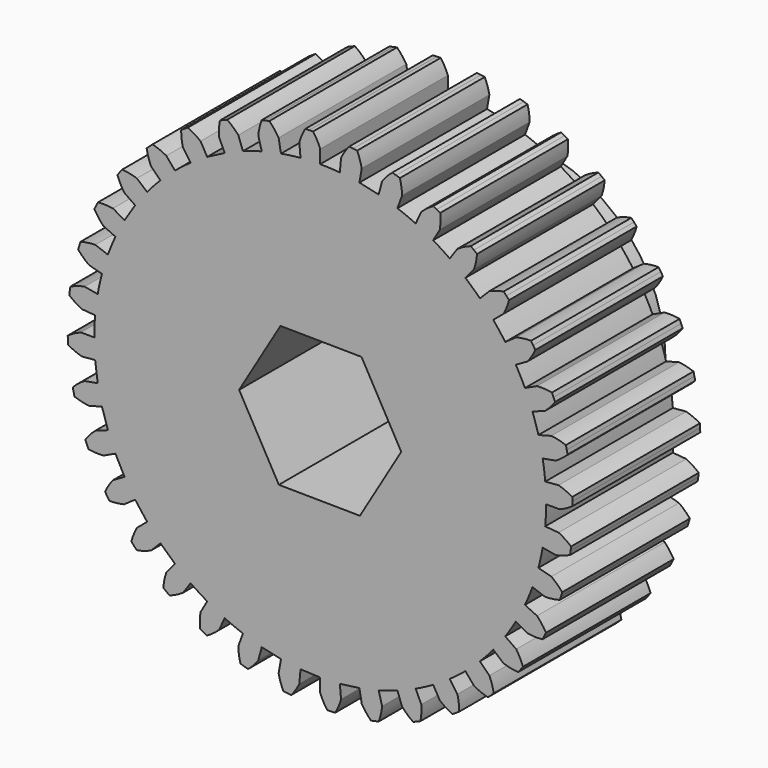
from build123d import *

# Parameters (mm, degrees)
F1_DEPTH = 12.7
F2_R     = 11.43
F3_DEPTH = 7.366
F5_DEPTH = 254


with BuildPart() as f1:
    # F0 (on Front) → F1 (new body)
    with BuildSketch(Plane.XZ):
        with BuildLine():
            Line((-1.660317, 18.977509), (-1.567339, 17.914768))
            ThreePointArc((-1.567339, 17.914768), (-2.347279, 17.829351), (-3.12275, 17.709995))
            Line((-3.12275, 17.709995), (-3.307998, 18.760588))
            ThreePointArc((-3.307998, 18.760588), (-3.645848, 19.250039), (-4.042066, 19.693566))
            ThreePointArc((-4.042066, 19.693566), (-4.196825, 19.661167), (-4.351324, 19.627553))
            ThreePointArc((-4.351324, 19.627553), (-4.505554, 19.592724), (-4.659505, 19.556683))
            ThreePointArc((-4.659505, 19.556683), (-4.831158, 18.987262), (-4.930503, 18.400887))
            Line((-4.930503, 18.400887), (-4.654395, 17.370437))
            ThreePointArc((-4.654395, 17.370437), (-5.407653, 17.150883), (-6.150617, 16.89868))
            Line((-6.150617, 16.89868), (-6.515484, 17.901144))
            ThreePointArc((-6.515484, 17.901144), (-6.933193, 18.324493), (-7.40041, 18.692479))
            ThreePointArc((-7.40041, 18.692479), (-7.547191, 18.633699), (-7.693506, 18.573767))
            ThreePointArc((-7.693506, 18.573767), (-7.839345, 18.512685), (-7.984699, 18.450459))
            ThreePointArc((-7.984699, 18.450459), (-8.054865, 17.859881), (-8.050878, 17.265163))
            Line((-8.050878, 17.265163), (-7.600029, 16.298314))
            Line((-7.600029, 16.298314), (-8.9916, 15.573908))
            Line((-8.9916, 15.573908), (-9.525, 16.497784))
            ThreePointArc((-9.525, 16.497784), (-10.009877, 16.842166), (-10.533896, 17.123431))
            ThreePointArc((-10.533896, 17.123431), (-10.66824, 17.040055), (-10.801925, 16.955626))
            ThreePointArc((-10.801925, 16.955626), (-10.934942, 16.870148), (-11.067282, 16.783626))
            ThreePointArc((-11.067282, 16.783626), (-11.033829, 16.189837), (-10.926631, 15.604846))
            Line((-10.926631, 15.604846), (-10.31474, 14.730975))
            ThreePointArc((-10.31474, 14.730975), (-10.947479, 14.267032), (-11.559378, 13.77593))
            Line((-11.559378, 13.77593), (-12.245104, 14.593147))
            ThreePointArc((-12.245104, 14.593147), (-12.782416, 14.848099), (-13.347315, 15.034095))
            ThreePointArc((-13.347315, 15.034095), (-13.46514, 14.928658), (-13.582133, 14.822297))
            ThreePointArc((-13.582133, 14.822297), (-13.698286, 14.71502), (-13.813591, 14.606832))
            ThreePointArc((-13.813591, 14.606832), (-13.677536, 14.027872), (-13.470384, 13.470384))
            Line((-13.470384, 13.470384), (-12.716043, 12.716043))
            ThreePointArc((-12.716043, 12.716043), (-13.258606, 12.149274), (-13.77593, 11.559378))
            Line((-13.77593, 11.559378), (-14.593147, 12.245104))
            ThreePointArc((-14.593147, 12.245104), (-15.166568, 12.402879), (-15.755182, 12.487957))
            ThreePointArc((-15.755182, 12.487957), (-15.852909, 12.363661), (-15.949655, 12.238601))
            ThreePointArc((-15.949655, 12.238601), (-16.045414, 12.112783), (-16.140181, 11.986216))
            ThreePointArc((-16.140181, 11.986216), (-15.905658, 11.439678), (-15.604846, 10.926631))
            Line((-15.604846, 10.926631), (-14.730975, 10.31474))
            Line((-14.730975, 10.31474), (-15.573908, 8.9916))
            Line((-15.573908, 8.9916), (-16.497784, 9.525))
            ThreePointArc((-16.497784, 9.525), (-17.089891, 9.580805), (-17.684337, 9.562378))
            ThreePointArc((-17.684337, 9.562378), (-17.758995, 9.423001), (-17.832554, 9.28304))
            ThreePointArc((-17.832554, 9.28304), (-17.905011, 9.142506), (-17.97636, 9.001406))
            ThreePointArc((-17.97636, 9.001406), (-17.650495, 8.503895), (-17.265163, 8.050878))
            Line((-17.265163, 8.050878), (-16.298314, 7.600029))
            ThreePointArc((-16.298314, 7.600029), (-16.61431, 6.881873), (-16.89868, 6.150617))
            Line((-16.89868, 6.150617), (-17.901144, 6.515484))
            ThreePointArc((-17.901144, 6.515484), (-18.493947, 6.467623), (-19.076161, 6.346251))
            ThreePointArc((-19.076161, 6.346251), (-19.125483, 6.196027), (-19.173621, 6.045419))
            ThreePointArc((-19.173621, 6.045419), (-19.220573, 5.894438), (-19.266337, 5.743092))
            ThreePointArc((-19.266337, 5.743092), (-18.85903, 5.309726), (-18.400887, 4.930503))
            Line((-18.400887, 4.930503), (-17.370437, 4.654395))
            ThreePointArc((-17.370437, 4.654395), (-17.556926, 3.892277), (-17.709995, 3.12275))
            Line((-17.709995, 3.12275), (-18.760588, 3.307998))
            ThreePointArc((-18.760588, 3.307998), (-19.336073, 3.157925), (-19.888367, 2.937297))
            ThreePointArc((-19.888367, 2.937297), (-19.910852, 2.78079), (-19.932107, 2.624112))
            ThreePointArc((-19.932107, 2.624112), (-19.952128, 2.467271), (-19.970915, 2.310277))
            ThreePointArc((-19.970915, 2.310277), (-19.494543, 1.954223), (-18.977509, 1.660317))
            Line((-18.977509, 1.660317), (-17.914768, 1.567339))
            ThreePointArc((-17.914768, 1.567339), (-17.966084, 0.784416), (-17.9832, 0))
            Line((-17.9832, 0), (-19.05, 0))
            ThreePointArc((-19.05, 0), (-19.590682, -0.247725), (-20.096274, -0.560906))
            ThreePointArc((-20.096274, -0.560906), (-20.091241, -0.71894), (-20.084965, -0.876929))
            ThreePointArc((-20.084965, -0.876929), (-20.077447, -1.034863), (-20.068688, -1.192734))
            ThreePointArc((-20.068688, -1.192734), (-19.537725, -1.460658), (-18.977509, -1.660317))
            Line((-18.977509, -1.660317), (-17.914768, -1.567339))
            Line((-17.914768, -1.567339), (-17.709995, -3.12275))
            Line((-17.709995, -3.12275), (-18.760588, -3.307998))
            ThreePointArc((-18.760588, -3.307998), (-19.250039, -3.645848), (-19.693566, -4.042066))
            ThreePointArc((-19.693566, -4.042066), (-19.661167, -4.196825), (-19.627553, -4.351324))
            ThreePointArc((-19.627553, -4.351324), (-19.592724, -4.505554), (-19.556683, -4.659505))
            ThreePointArc((-19.556683, -4.659505), (-18.987262, -4.831158), (-18.400887, -4.930503))
            Line((-18.400887, -4.930503), (-17.370437, -4.654395))
            Line((-17.370437, -4.654395), (-16.89868, -6.150617))
            Line((-16.89868, -6.150617), (-17.901144, -6.515484))
            ThreePointArc((-17.901144, -6.515484), (-18.324493, -6.933193), (-18.692479, -7.40041))
            ThreePointArc((-18.692479, -7.40041), (-18.633699, -7.547191), (-18.573767, -7.693506))
            ThreePointArc((-18.573767, -7.693506), (-18.512685, -7.839345), (-18.450459, -7.984699))
            ThreePointArc((-18.450459, -7.984699), (-17.859881, -8.054865), (-17.265163, -8.050878))
            Line((-17.265163, -8.050878), (-16.298314, -7.600029))
            Line((-16.298314, -7.600029), (-15.573908, -8.9916))
            Line((-15.573908, -8.9916), (-16.497784, -9.525))
            ThreePointArc((-16.497784, -9.525), (-16.842166, -10.009877), (-17.123431, -10.533896))
            ThreePointArc((-17.123431, -10.533896), (-17.040055, -10.66824), (-16.955626, -10.801925))
            ThreePointArc((-16.955626, -10.801925), (-16.870148, -10.934942), (-16.783626, -11.067282))
            ThreePointArc((-16.783626, -11.067282), (-16.189837, -11.033829), (-15.604846, -10.926631))
            Line((-15.604846, -10.926631), (-14.730975, -10.31474))
            Line((-14.730975, -10.31474), (-13.77593, -11.559378))
            Line((-13.77593, -11.559378), (-14.593147, -12.245104))
            ThreePointArc((-14.593147, -12.245104), (-14.848099, -12.782416), (-15.034095, -13.347315))
            ThreePointArc((-15.034095, -13.347315), (-14.928658, -13.46514), (-14.822297, -13.582133))
            ThreePointArc((-14.822297, -13.582133), (-14.71502, -13.698286), (-14.606832, -13.813591))
            ThreePointArc((-14.606832, -13.813591), (-14.027872, -13.677536), (-13.470384, -13.470384))
            Line((-13.470384, -13.470384), (-12.716043, -12.716043))
            Line((-12.716043, -12.716043), (-11.559378, -13.77593))
            Line((-11.559378, -13.77593), (-12.245104, -14.593147))
            ThreePointArc((-12.245104, -14.593147), (-12.402879, -15.166568), (-12.487957, -15.755182))
            ThreePointArc((-12.487957, -15.755182), (-12.363661, -15.852909), (-12.238601, -15.949655))
            ThreePointArc((-12.238601, -15.949655), (-12.112783, -16.045414), (-11.986216, -16.140181))
            ThreePointArc((-11.986216, -16.140181), (-11.439678, -15.905658), (-10.926631, -15.604846))
            Line((-10.926631, -15.604846), (-10.31474, -14.730975))
            ThreePointArc((-10.31474, -14.730975), (-9.662366, -15.166877), (-8.9916, -15.573908))
            Line((-8.9916, -15.573908), (-9.525, -16.497784))
            ThreePointArc((-9.525, -16.497784), (-9.580805, -17.089891), (-9.562378, -17.684337))
            ThreePointArc((-9.562378, -17.684337), (-9.423001, -17.758995), (-9.28304, -17.832554))
            ThreePointArc((-9.28304, -17.832554), (-9.142506, -17.905011), (-9.001406, -17.97636))
            ThreePointArc((-9.001406, -17.97636), (-8.503895, -17.650495), (-8.050878, -17.265163))
            Line((-8.050878, -17.265163), (-7.600029, -16.298314))
            ThreePointArc((-7.600029, -16.298314), (-6.881873, -16.61431), (-6.150617, -16.89868))
            Line((-6.150617, -16.89868), (-6.515484, -17.901144))
            ThreePointArc((-6.515484, -17.901144), (-6.467623, -18.493947), (-6.346251, -19.076161))
            ThreePointArc((-6.346251, -19.076161), (-6.196027, -19.125483), (-6.045419, -19.173621))
            ThreePointArc((-6.045419, -19.173621), (-5.894438, -19.220573), (-5.743092, -19.266337))
            ThreePointArc((-5.743092, -19.266337), (-5.309726, -18.85903), (-4.930503, -18.400887))
            Line((-4.930503, -18.400887), (-4.654395, -17.370437))
            Line((-4.654395, -17.370437), (-3.12275, -17.709995))
            Line((-3.12275, -17.709995), (-3.307998, -18.760588))
            ThreePointArc((-3.307998, -18.760588), (-3.157925, -19.336073), (-2.937297, -19.888367))
            ThreePointArc((-2.937297, -19.888367), (-2.78079, -19.910852), (-2.624112, -19.932107))
            ThreePointArc((-2.624112, -19.932107), (-2.467271, -19.952128), (-2.310277, -19.970915))
            ThreePointArc((-2.310277, -19.970915), (-1.954223, -19.494543), (-1.660317, -18.977509))
            Line((-1.660317, -18.977509), (-1.567339, -17.914768))
            Line((-1.567339, -17.914768), (0, -17.9832))
            Line((0, -17.9832), (0, -19.05))
            ThreePointArc((0, -19.05), (0.247725, -19.590682), (0.560906, -20.096274))
            ThreePointArc((0.560906, -20.096274), (0.71894, -20.091241), (0.876929, -20.084965))
            ThreePointArc((0.876929, -20.084965), (1.034863, -20.077447), (1.192734, -20.068688))
            ThreePointArc((1.192734, -20.068688), (1.460658, -19.537725), (1.660317, -18.977509))
            Line((1.660317, -18.977509), (1.567339, -17.914768))
            Line((1.567339, -17.914768), (3.12275, -17.709995))
            Line((3.12275, -17.709995), (3.307998, -18.760588))
            ThreePointArc((3.307998, -18.760588), (3.645848, -19.250039), (4.042066, -19.693566))
            ThreePointArc((4.042066, -19.693566), (4.196825, -19.661167), (4.351324, -19.627553))
            ThreePointArc((4.351324, -19.627553), (4.505554, -19.592724), (4.659505, -19.556683))
            ThreePointArc((4.659505, -19.556683), (4.831158, -18.987262), (4.930503, -18.400887))
            Line((4.930503, -18.400887), (4.654395, -17.370437))
            ThreePointArc((4.654395, -17.370437), (5.407653, -17.150883), (6.150617, -16.89868))
            Line((6.150617, -16.89868), (6.515484, -17.901144))
            ThreePointArc((6.515484, -17.901144), (6.933193, -18.324493), (7.40041, -18.692479))
            ThreePointArc((7.40041, -18.692479), (7.547191, -18.633699), (7.693506, -18.573767))
            ThreePointArc((7.693506, -18.573767), (7.839345, -18.512685), (7.984699, -18.450459))
            ThreePointArc((7.984699, -18.450459), (8.054865, -17.859881), (8.050878, -17.265163))
            Line((8.050878, -17.265163), (7.600029, -16.298314))
            ThreePointArc((7.600029, -16.298314), (8.303718, -15.951293), (8.9916, -15.573908))
            Line((8.9916, -15.573908), (9.525, -16.497784))
            ThreePointArc((9.525, -16.497784), (10.009877, -16.842166), (10.533896, -17.123431))
            ThreePointArc((10.533896, -17.123431), (10.66824, -17.040055), (10.801925, -16.955626))
            ThreePointArc((10.801925, -16.955626), (10.934942, -16.870148), (11.067282, -16.783626))
            ThreePointArc((11.067282, -16.783626), (11.033829, -16.189837), (10.926631, -15.604846))
            Line((10.926631, -15.604846), (10.31474, -14.730975))
            ThreePointArc((10.31474, -14.730975), (10.947479, -14.267032), (11.559378, -13.77593))
            Line((11.559378, -13.77593), (12.245104, -14.593147))
            ThreePointArc((12.245104, -14.593147), (12.782416, -14.848099), (13.347315, -15.034095))
            ThreePointArc((13.347315, -15.034095), (13.46514, -14.928658), (13.582133, -14.822297))
            ThreePointArc((13.582133, -14.822297), (13.698286, -14.71502), (13.813591, -14.606832))
            ThreePointArc((13.813591, -14.606832), (13.677536, -14.027872), (13.470384, -13.470384))
            Line((13.470384, -13.470384), (12.716043, -12.716043))
            ThreePointArc((12.716043, -12.716043), (13.258606, -12.149274), (13.77593, -11.559378))
            Line((13.77593, -11.559378), (14.593147, -12.245104))
            ThreePointArc((14.593147, -12.245104), (15.166568, -12.402879), (15.755182, -12.487957))
            ThreePointArc((15.755182, -12.487957), (15.852909, -12.363661), (15.949655, -12.238601))
            ThreePointArc((15.949655, -12.238601), (16.045414, -12.112783), (16.140181, -11.986216))
            ThreePointArc((16.140181, -11.986216), (15.905658, -11.439678), (15.604846, -10.926631))
            Line((15.604846, -10.926631), (14.730975, -10.31474))
            ThreePointArc((14.730975, -10.31474), (15.166877, -9.662366), (15.573908, -8.9916))
            Line((15.573908, -8.9916), (16.497784, -9.525))
            ThreePointArc((16.497784, -9.525), (17.089891, -9.580805), (17.684337, -9.562378))
            ThreePointArc((17.684337, -9.562378), (17.758995, -9.423001), (17.832554, -9.28304))
            ThreePointArc((17.832554, -9.28304), (17.905011, -9.142506), (17.97636, -9.001406))
            ThreePointArc((17.97636, -9.001406), (17.650495, -8.503895), (17.265163, -8.050878))
            Line((17.265163, -8.050878), (16.298314, -7.600029))
            ThreePointArc((16.298314, -7.600029), (16.61431, -6.881873), (16.89868, -6.150617))
            Line((16.89868, -6.150617), (17.901144, -6.515484))
            ThreePointArc((17.901144, -6.515484), (18.493947, -6.467623), (19.076161, -6.346251))
            ThreePointArc((19.076161, -6.346251), (19.125483, -6.196027), (19.173621, -6.045419))
            ThreePointArc((19.173621, -6.045419), (19.220573, -5.894438), (19.266337, -5.743092))
            ThreePointArc((19.266337, -5.743092), (18.85903, -5.309726), (18.400887, -4.930503))
            Line((18.400887, -4.930503), (17.370437, -4.654395))
            ThreePointArc((17.370437, -4.654395), (17.556926, -3.892277), (17.709995, -3.12275))
            Line((17.709995, -3.12275), (18.760588, -3.307998))
            ThreePointArc((18.760588, -3.307998), (19.336073, -3.157925), (19.888367, -2.937297))
            ThreePointArc((19.888367, -2.937297), (19.910852, -2.78079), (19.932107, -2.624112))
            ThreePointArc((19.932107, -2.624112), (19.952128, -2.467271), (19.970915, -2.310277))
            ThreePointArc((19.970915, -2.310277), (19.494543, -1.954223), (18.977509, -1.660317))
            Line((18.977509, -1.660317), (17.914768, -1.567339))
            ThreePointArc((17.914768, -1.567339), (17.966084, -0.784416), (17.9832, 0))
            Line((17.9832, 0), (19.05, 0))
            ThreePointArc((19.05, 0), (19.590682, 0.247725), (20.096274, 0.560906))
            ThreePointArc((20.096274, 0.560906), (20.091241, 0.71894), (20.084965, 0.876929))
            ThreePointArc((20.084965, 0.876929), (20.077447, 1.034863), (20.068688, 1.192734))
            ThreePointArc((20.068688, 1.192734), (19.537725, 1.460658), (18.977509, 1.660317))
            Line((18.977509, 1.660317), (17.914768, 1.567339))
            ThreePointArc((17.914768, 1.567339), (17.829351, 2.347279), (17.709995, 3.12275))
            Line((17.709995, 3.12275), (18.760588, 3.307998))
            ThreePointArc((18.760588, 3.307998), (19.250039, 3.645848), (19.693566, 4.042066))
            ThreePointArc((19.693566, 4.042066), (19.661167, 4.196825), (19.627553, 4.351324))
            ThreePointArc((19.627553, 4.351324), (19.592724, 4.505554), (19.556683, 4.659505))
            ThreePointArc((19.556683, 4.659505), (18.987262, 4.831158), (18.400887, 4.930503))
            Line((18.400887, 4.930503), (17.370437, 4.654395))
            ThreePointArc((17.370437, 4.654395), (17.150883, 5.407653), (16.89868, 6.150617))
            Line((16.89868, 6.150617), (17.901144, 6.515484))
            ThreePointArc((17.901144, 6.515484), (18.324493, 6.933193), (18.692479, 7.40041))
            ThreePointArc((18.692479, 7.40041), (18.633699, 7.547191), (18.573767, 7.693506))
            ThreePointArc((18.573767, 7.693506), (18.512685, 7.839345), (18.450459, 7.984699))
            ThreePointArc((18.450459, 7.984699), (17.859881, 8.054865), (17.265163, 8.050878))
            Line((17.265163, 8.050878), (16.298314, 7.600029))
            ThreePointArc((16.298314, 7.600029), (15.951293, 8.303718), (15.573908, 8.9916))
            Line((15.573908, 8.9916), (16.497784, 9.525))
            ThreePointArc((16.497784, 9.525), (16.842166, 10.009877), (17.123431, 10.533896))
            ThreePointArc((17.123431, 10.533896), (17.040055, 10.66824), (16.955626, 10.801925))
            ThreePointArc((16.955626, 10.801925), (16.870148, 10.934942), (16.783626, 11.067282))
            ThreePointArc((16.783626, 11.067282), (16.189837, 11.033829), (15.604846, 10.926631))
            Line((15.604846, 10.926631), (14.730975, 10.31474))
            ThreePointArc((14.730975, 10.31474), (14.267032, 10.947479), (13.77593, 11.559378))
            Line((13.77593, 11.559378), (14.593147, 12.245104))
            ThreePointArc((14.593147, 12.245104), (14.848099, 12.782416), (15.034095, 13.347315))
            ThreePointArc((15.034095, 13.347315), (14.928658, 13.46514), (14.822297, 13.582133))
            ThreePointArc((14.822297, 13.582133), (14.71502, 13.698286), (14.606832, 13.813591))
            ThreePointArc((14.606832, 13.813591), (14.027872, 13.677536), (13.470384, 13.470384))
            Line((13.470384, 13.470384), (12.716043, 12.716043))
            ThreePointArc((12.716043, 12.716043), (12.149274, 13.258606), (11.559378, 13.77593))
            Line((11.559378, 13.77593), (12.245104, 14.593147))
            ThreePointArc((12.245104, 14.593147), (12.402879, 15.166568), (12.487957, 15.755182))
            ThreePointArc((12.487957, 15.755182), (12.363661, 15.852909), (12.238601, 15.949655))
            ThreePointArc((12.238601, 15.949655), (12.112783, 16.045414), (11.986216, 16.140181))
            ThreePointArc((11.986216, 16.140181), (11.439678, 15.905658), (10.926631, 15.604846))
            Line((10.926631, 15.604846), (10.31474, 14.730975))
            ThreePointArc((10.31474, 14.730975), (9.662366, 15.166877), (8.9916, 15.573908))
            Line((8.9916, 15.573908), (9.525, 16.497784))
            ThreePointArc((9.525, 16.497784), (9.580805, 17.089891), (9.562378, 17.684337))
            ThreePointArc((9.562378, 17.684337), (9.423001, 17.758995), (9.28304, 17.832554))
            ThreePointArc((9.28304, 17.832554), (9.142506, 17.905011), (9.001406, 17.97636))
            ThreePointArc((9.001406, 17.97636), (8.503895, 17.650495), (8.050878, 17.265163))
            Line((8.050878, 17.265163), (7.600029, 16.298314))
            ThreePointArc((7.600029, 16.298314), (6.881873, 16.61431), (6.150617, 16.89868))
            Line((6.150617, 16.89868), (6.515484, 17.901144))
            ThreePointArc((6.515484, 17.901144), (6.467623, 18.493947), (6.346251, 19.076161))
            ThreePointArc((6.346251, 19.076161), (6.196027, 19.125483), (6.045419, 19.173621))
            ThreePointArc((6.045419, 19.173621), (5.894438, 19.220573), (5.743092, 19.266337))
            ThreePointArc((5.743092, 19.266337), (5.309726, 18.85903), (4.930503, 18.400887))
            Line((4.930503, 18.400887), (4.654395, 17.370437))
            Line((4.654395, 17.370437), (3.12275, 17.709995))
            Line((3.12275, 17.709995), (3.307998, 18.760588))
            ThreePointArc((3.307998, 18.760588), (3.157925, 19.336073), (2.937297, 19.888367))
            ThreePointArc((2.937297, 19.888367), (2.78079, 19.910852), (2.624112, 19.932107))
            ThreePointArc((2.624112, 19.932107), (2.467271, 19.952128), (2.310277, 19.970915))
            ThreePointArc((2.310277, 19.970915), (1.954223, 19.494543), (1.660317, 18.977509))
            Line((1.660317, 18.977509), (1.567339, 17.914768))
            ThreePointArc((1.567339, 17.914768), (0.784416, 17.966084), (0, 17.9832))
            Line((0, 17.9832), (0, 19.05))
            ThreePointArc((0, 19.05), (-0.247725, 19.590682), (-0.560906, 20.096274))
            ThreePointArc((-0.560906, 20.096274), (-0.71894, 20.091241), (-0.876929, 20.084965))
            ThreePointArc((-0.876929, 20.084965), (-1.034863, 20.077447), (-1.192734, 20.068688))
            ThreePointArc((-1.192734, 20.068688), (-1.460658, 19.537725), (-1.660317, 18.977509))
        make_face()
    extrude(amount=F1_DEPTH)

    # F2 (on Front) → F3 (join)
    with BuildSketch(Plane.XZ):
        Circle(F2_R)
    extrude(amount=-F3_DEPTH)

    # F4 (on face) → F5 (cut)
    with BuildSketch(Plane(origin=(0, 7.366, 0), x_dir=(-1, 0, 0), z_dir=(0, 1, 0))):
        Polygon((6.452054, 0.072981), (3.162824, 5.624133), (-3.28923, 5.551152), (-6.452054, -0.072981), (-3.162824, -5.624133), (3.28923, -5.551152), align=None)
    extrude(amount=-F5_DEPTH, mode=Mode.SUBTRACT)


solid = f1.part
